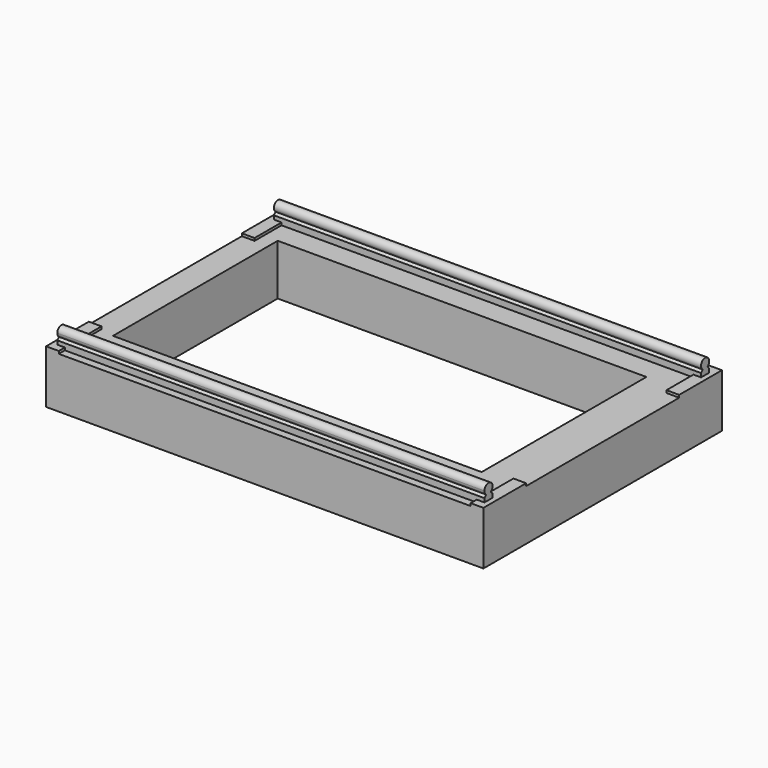
from build123d import *

# Parameters (mm, degrees)
F0_W     = 1092.2
F0_H     = 744.5375
F0_W_2   = 920.75
F0_H_2   = 514.35
F1_DEPTH = 127
F2_W     = 1066.8
F2_H     = 25.4
F3_DEPTH = 25.4
F4_SIZE  = 9.525
F5_R     = 12.7
F6_DEPTH = 1066.8
F8_DEPTH = 6.35


with BuildPart() as f1:
    # F0 (on Top) → F1 (new body)
    with BuildSketch(Plane.XY):
        with Locations((546.1, 372.26875)):
            Rectangle(F0_W, F0_H)
        with Locations((527.05, 382.5875)):
            Rectangle(F0_W_2, F0_H_2, mode=Mode.SUBTRACT)
    extrude(amount=F1_DEPTH)

    # F2 (on face) → F3 (join)
    with BuildSketch(Plane.XY.offset(127)):
        with Locations((546.1, 31.75)):
            Rectangle(F2_W, F2_H)
        with Locations((546.1, 708.025)):
            Rectangle(F2_W, F2_H)
    extrude(amount=F3_DEPTH)

    # F4
    f4_edges = [f1.edges().sort_by_distance(p)[0] for p in [
        (546.1, 19.05, 152.4),
        (546.1, 44.45, 152.4),
        (546.1, 720.725, 152.4),
        (546.1, 695.325, 152.4),
    ]]
    chamfer(f4_edges, length=F4_SIZE)

    # F5 (on face) → F6 (join)
    with BuildSketch(Plane(origin=(12.7, 0, 0), x_dir=(0, -1, 0), z_dir=(-1, 0, 0))):
        with Locations((-708.025, 158.75)):
            Circle(F5_R)
        with BuildLine():
            Line((-34.925, 152.4), (-39.001326, 148.323674))
            ThreePointArc((-39.001326, 148.323674), (-31.75, 146.05), (-24.498674, 148.323674))
            Line((-24.498674, 148.323674), (-28.575, 152.4))
            Line((-28.575, 152.4), (-34.925, 152.4))
        make_face()
        with BuildLine():
            ThreePointArc((-24.498674, 148.323674), (-20.494294, 152.867902), (-19.05, 158.75))
            ThreePointArc((-19.05, 158.75), (-37.632098, 170.005706), (-39.001326, 148.323674))
            Line((-39.001326, 148.323674), (-34.925, 152.4))
            Line((-34.925, 152.4), (-28.575, 152.4))
            Line((-28.575, 152.4), (-24.498674, 148.323674))
        make_face()
    extrude(amount=-F6_DEPTH)

    # F7 (on face) → F8 (join)
    with BuildSketch(Plane.XY.offset(127)):
        Polygon((0, 0), (31.75, 0), (31.75, 19.05), (12.7, 19.05), (12.7, 44.45), (31.75, 44.45), (31.75, 133.35), (0, 133.35), align=None)
        Polygon((0, 744.5375), (0, 611.1875), (31.75, 611.1875), (31.75, 695.325), (12.7, 695.325), (12.7, 720.725), (31.75, 720.725), (31.75, 744.5375), align=None)
        Polygon((1060.45, 611.1875), (1092.2, 611.1875), (1092.2, 744.5375), (1060.45, 744.5375), (1060.45, 720.725), (1079.5, 720.725), (1079.5, 695.325), (1060.45, 695.325), align=None)
        Polygon((1060.45, 0), (1092.2, 0), (1092.2, 133.35), (1060.45, 133.35), (1060.45, 44.45), (1079.5, 44.45), (1079.5, 19.05), (1060.45, 19.05), align=None)
    extrude(amount=F8_DEPTH)


solid = f1.part
